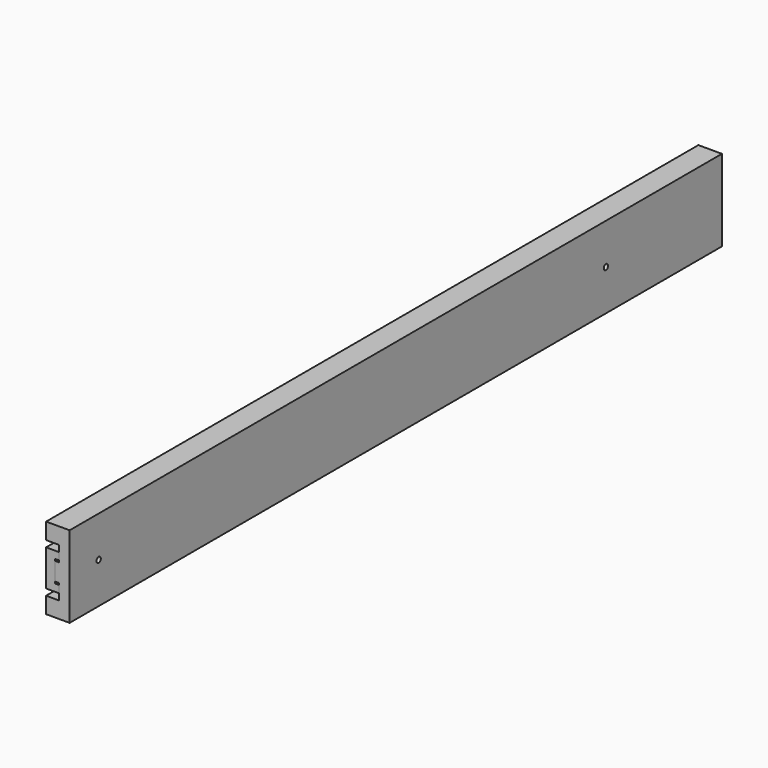
from build123d import *

# Parameters (mm, degrees)
F1_DEPTH       = 450
F3_D           = 3
F3_CSINK_D     = 6
F3_CSINK_ANGLE = 90
F5_DEPTH       = 450
F7_D           = 3
F7_CSINK_D     = 6
F7_CSINK_ANGLE = 90


with BuildPart() as f1:
    # F0 (on Front) → F1 (new body)
    with BuildSketch(Plane.XZ):
        Polygon((0, 10), (-7, 10), (-7, -10), (0, -10), (0, -6), (-2, -6), (-2, 6), (0, 6), align=None)
    extrude(amount=-F1_DEPTH)

    # F3 (through all)
    with Locations(Plane.YZ.offset(-2)):
        with Locations((20, 0), (370, 0)):
            CounterSinkHole(F3_D / 2, F3_CSINK_D / 2, counter_sink_angle=F3_CSINK_ANGLE)


with BuildPart() as f5:
    # F4 (on Front) → F5 (new body)
    with BuildSketch(Plane.XZ):
        Polygon((6, 22.5), (-7, 22.5), (-7, 13.5), (0, 13.5), (0, 5), (-2, 5), (-2, -5), (0, -5), (0, -13.5), (-7, -13.5), (-7, -22.5), (6, -22.5), align=None)
    extrude(amount=-F5_DEPTH)

    # F7 (through all)
    with Locations(Plane(origin=(-2, 0, 0), x_dir=(0, -1, 0), z_dir=(-1, 0, 0))):
        with Locations((-20, 0), (-370, 0)):
            CounterSinkHole(F7_D / 2, F7_CSINK_D / 2, counter_sink_angle=F7_CSINK_ANGLE)


solid = Compound([f1.part, f5.part])
